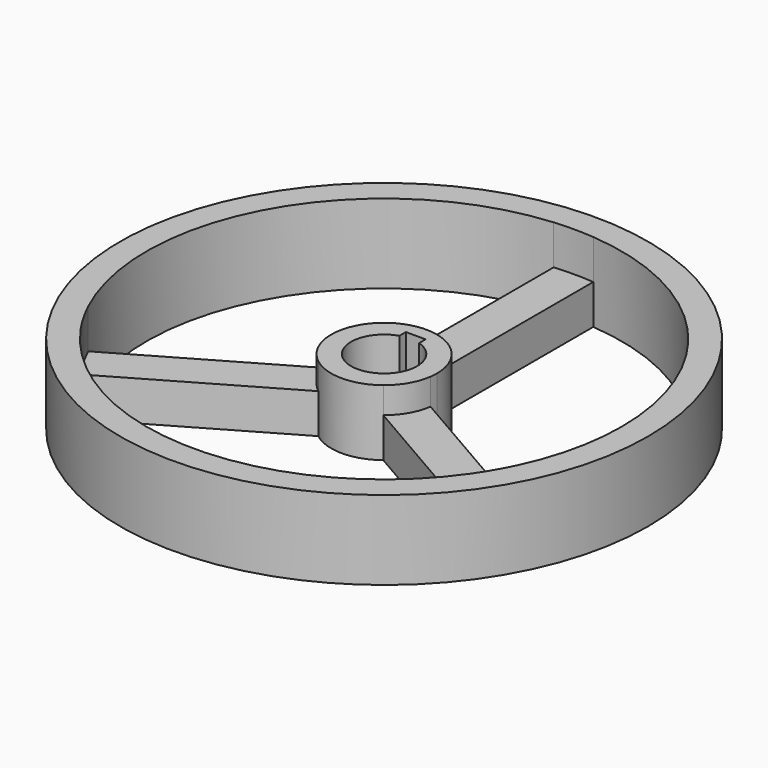
from build123d import *

# Parameters (mm, degrees)
F0_R     = 127
F1_DEPTH = 38.1
F2_DEPTH = 19.05
F3_DEPTH = 31.75


with BuildPart() as f1:
    # F0 (on Top) → F1 (new body)
    with BuildSketch(Plane.XY):
        Circle(F0_R)
        with BuildLine():
            ThreePointArc((9.525, 113.902434), (84.122522, 77.381466), (114.3, 0))
            ThreePointArc((114.3, 0), (111.542974, -24.953054), (103.404901, -48.702325))
            ThreePointArc((103.404901, -48.702325), (98.986704, -57.15), (93.879901, -65.200109))
            ThreePointArc((93.879901, -65.200109), (0, -114.3), (-93.879901, -65.200109))
            ThreePointArc((-93.879901, -65.200109), (-98.986704, -57.15), (-103.404901, -48.702325))
            ThreePointArc((-103.404901, -48.702325), (-98.986704, 57.15), (-9.525, 113.902434))
            ThreePointArc((-9.525, 113.902434), (0, 114.3), (9.525, 113.902434))
        make_face(mode=Mode.SUBTRACT)
    extrude(amount=F1_DEPTH)

    # F0 (on Top) → F2 (join)
    with BuildSketch(Plane.XY):
        with BuildLine():
            Line((9.525, 23.54643), (9.525, 113.902434))
            ThreePointArc((9.525, 113.902434), (0, 114.3), (-9.525, 113.902434))
            Line((-9.525, 113.902434), (-9.525, 23.54643))
            ThreePointArc((-9.525, 23.54643), (0, 25.4), (9.525, 23.54643))
        make_face()
        with BuildLine():
            Line((-25.154307, -3.524323), (-103.404901, -48.702325))
            ThreePointArc((-103.404901, -48.702325), (-98.986704, -57.15), (-93.879901, -65.200109))
            Line((-93.879901, -65.200109), (-15.629307, -20.022107))
            ThreePointArc((-15.629307, -20.022107), (-21.997045, -12.7), (-25.154307, -3.524323))
        make_face()
        with BuildLine():
            ThreePointArc((93.879901, -65.200109), (98.986704, -57.15), (103.404901, -48.702325))
            Line((103.404901, -48.702325), (25.154307, -3.524323))
            ThreePointArc((25.154307, -3.524323), (21.997045, -12.7), (15.629307, -20.022107))
            Line((15.629307, -20.022107), (93.879901, -65.200109))
        make_face()
    extrude(amount=F2_DEPTH)

    # F0 (on Top) → F3 (join)
    with BuildSketch(Plane.XY):
        with BuildLine():
            ThreePointArc((25.4, 0), (21.060567, 14.199032), (9.525, 23.54643))
            ThreePointArc((9.525, 23.54643), (0, 25.4), (-9.525, 23.54643))
            ThreePointArc((-9.525, 23.54643), (-21.997045, 12.7), (-25.154307, -3.524323))
            ThreePointArc((-25.154307, -3.524323), (-21.997045, -12.7), (-15.629307, -20.022107))
            ThreePointArc((-15.629307, -20.022107), (0, -25.4), (15.629307, -20.022107))
            ThreePointArc((15.629307, -20.022107), (21.997045, -12.7), (25.154307, -3.524323))
            ThreePointArc((25.154307, -3.524323), (25.338502, -1.766438), (25.4, 0))
        make_face()
        with BuildLine():
            ThreePointArc((4.75969, 15.144668), (12.797963, 9.392964), (15.875, 0))
            ThreePointArc((15.875, 0), (-9.390589, -12.799705), (-4.76531, 15.142901))
            Line((-4.76531, 15.142901), (-4.76531, 19.049116))
            Line((-4.76531, 19.049116), (4.75969, 19.050883))
            Line((4.75969, 19.050883), (4.75969, 15.144668))
        make_face(mode=Mode.SUBTRACT)
    extrude(amount=F3_DEPTH)


solid = f1.part
